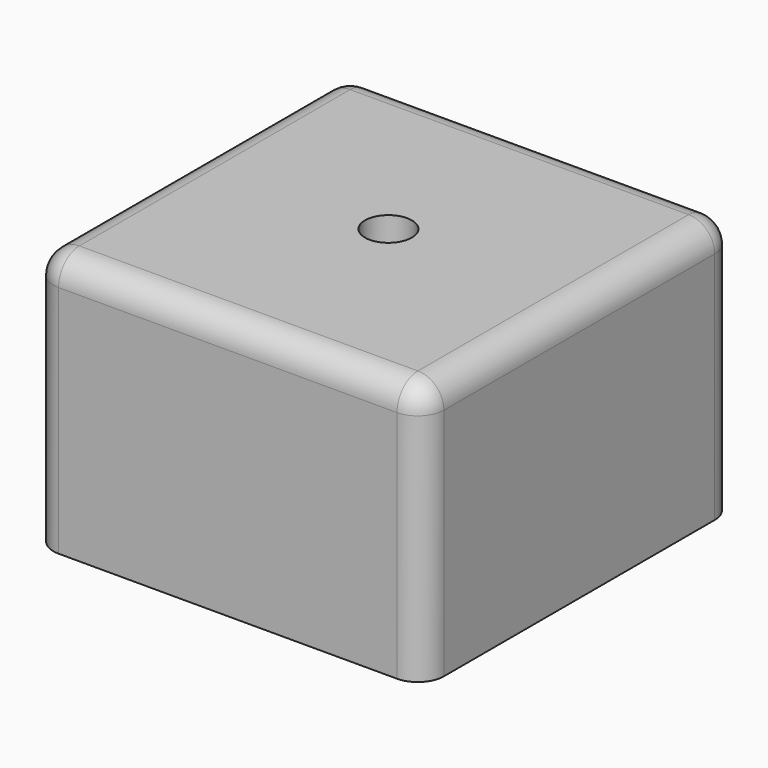
from build123d import *

# Parameters (mm, degrees)
CYLINDER001_R     = 1.8
CYLINDER001_DEPTH = 3
BOX006_W          = 3
BOX006_H          = 3
BOX006_DEPTH      = 3
BOX005_W          = 3
BOX005_H          = 3
BOX005_DEPTH      = 3
BOX003_W          = 3
BOX003_H          = 3
BOX003_DEPTH      = 3
BOX004_W          = 3
BOX004_H          = 3
BOX004_DEPTH      = 3
BOX002_W          = 3
BOX002_H          = 3
BOX002_DEPTH      = 3
BOX_W             = 26
BOX_H             = 26
BOX_DEPTH         = 17
BOX001_W          = 30
BOX001_H          = 30
BOX001_DEPTH      = 20
BOX010_W          = 6
BOX010_H          = 2
BOX010_DEPTH      = 3.4
BOX008_W          = 4
BOX008_H          = 4
BOX008_DEPTH      = 3.4
BOX007_W          = 26
BOX007_H          = 1.8
BOX007_DEPTH      = 3.4
BOX009_W          = 6
BOX009_H          = 2
BOX009_DEPTH      = 3.4
BOX011_W          = 6
BOX011_H          = 2
BOX011_DEPTH      = 3.4
FILLET_R          = 2


with BuildPart() as obj1:
    # Cylinder001 → Cylinder001 (new body)
    with BuildSketch(Plane(origin=(0.1, 0.3, 7), x_dir=(1, 0, 0), z_dir=(0, 0, 1))):
        Circle(CYLINDER001_R)
    extrude(amount=CYLINDER001_DEPTH)


with BuildPart() as l5:
    # Box006 → Box006 (new body)
    with BuildSketch(Plane(origin=(7.67, 8.11, 6.5), x_dir=(1, 0, 0), z_dir=(0, 0, 1))):
        with Locations((1.5, 1.5)):
            Rectangle(BOX006_W, BOX006_H)
    extrude(amount=BOX006_DEPTH)


with BuildPart() as l4:
    # Box005 → Box005 (new body)
    with BuildSketch(Plane(origin=(3.1, 8.11, 6.5), x_dir=(1, 0, 0), z_dir=(0, 0, 1))):
        with Locations((1.5, 1.5)):
            Rectangle(BOX005_W, BOX005_H)
    extrude(amount=BOX005_DEPTH)


with BuildPart() as l2:
    # Box003 → Box003 (new body)
    with BuildSketch(Plane(origin=(-6.04, 8.11, 6.5), x_dir=(1, 0, 0), z_dir=(0, 0, 1))):
        with Locations((1.5, 1.5)):
            Rectangle(BOX003_W, BOX003_H)
    extrude(amount=BOX003_DEPTH)


with BuildPart() as l3:
    # Box004 → Box004 (new body)
    with BuildSketch(Plane(origin=(-1.47, 8.11, 6.5), x_dir=(1, 0, 0), z_dir=(0, 0, 1))):
        with Locations((1.5, 1.5)):
            Rectangle(BOX004_W, BOX004_H)
    extrude(amount=BOX004_DEPTH)


with BuildPart() as fusion:
    # Box002 → Box002 (new body)
    with BuildSketch(Plane(origin=(-10.61, 8.11, 6.5), x_dir=(1, 0, 0), z_dir=(0, 0, 1))):
        with Locations((1.5, 1.5)):
            Rectangle(BOX002_W, BOX002_H)
    extrude(amount=BOX002_DEPTH)

    # Fusion: union L5, L4, L2, L3
    add(l5.part)
    add(l4.part)
    add(l2.part)
    add(l3.part)


with BuildPart() as maininside:
    # Box → Box (new body)
    with BuildSketch(Plane(origin=(-13, -13, -10), x_dir=(1, 0, 0), z_dir=(0, 0, 1))):
        with Locations((13, 13)):
            Rectangle(BOX_W, BOX_H)
    extrude(amount=BOX_DEPTH)


with BuildPart() as cut002:
    # Box001 → Box001 (new body)
    with BuildSketch(Plane(origin=(-15, -15, -10), x_dir=(1, 0, 0), z_dir=(0, 0, 1))):
        with Locations((15, 15)):
            Rectangle(BOX001_W, BOX001_H)
    extrude(amount=BOX001_DEPTH)

    # Cut: cut MainInside
    add(maininside.part, mode=Mode.SUBTRACT)

    # Cut001: cut Fusion
    add(fusion.part, mode=Mode.SUBTRACT)

    # Cut002: cut obj1
    add(obj1.part, mode=Mode.SUBTRACT)


with BuildPart() as obj2:
    # Box010 → Box010 (new body)
    with BuildSketch(Plane(origin=(-13, 5.5, 3.6), x_dir=(1, 0, 0), z_dir=(0, 0, 1))):
        with Locations((3, 1)):
            Rectangle(BOX010_W, BOX010_H)
    extrude(amount=BOX010_DEPTH)


with BuildPart() as obj3:
    # Box008 → Box008 (new body)
    with BuildSketch(Plane(origin=(8, 0, 3.6), x_dir=(1, 0, 0), z_dir=(0, 0, 1))):
        with Locations((2, 2)):
            Rectangle(BOX008_W, BOX008_H)
    extrude(amount=BOX008_DEPTH)


with BuildPart() as obj4:
    # Box007 → Box007 (new body)
    with BuildSketch(Plane(origin=(-13, 11.2, 3.6), x_dir=(1, 0, 0), z_dir=(0, 0, 1))):
        with Locations((13, 0.9)):
            Rectangle(BOX007_W, BOX007_H)
    extrude(amount=BOX007_DEPTH)


with BuildPart() as obj5:
    # Box009 → Box009 (new body)
    with BuildSketch(Plane(origin=(-13, -4, 3.6), x_dir=(1, 0, 0), z_dir=(0, 0, 1))):
        with Locations((3, 1)):
            Rectangle(BOX009_W, BOX009_H)
    extrude(amount=BOX009_DEPTH)


with BuildPart() as fillet_body:
    # Box011 → Box011 (new body)
    with BuildSketch(Plane(origin=(7, -13, 3.6), x_dir=(1, 0, 0), z_dir=(0, 0, 1))):
        with Locations((3, 1)):
            Rectangle(BOX011_W, BOX011_H)
    extrude(amount=BOX011_DEPTH)

    # Fusion002: union obj2, obj3, obj4, obj5
    add(obj2.part)
    add(obj3.part)
    add(obj4.part)
    add(obj5.part)

    # Fusion005: union Cut002
    add(cut002.part)

    # Fillet
    fillet_edges = [fillet_body.edges().sort_by_distance(p)[0] for p in [
        (-15, 0, 10),
        (0, 15, 10),
        (0, -15, 10),
        (15, 0, 10),
        (-15, -15, 0),
        (-15, 15, 0),
        (15, 15, 0),
        (15, -15, 0),
    ]]
    fillet(fillet_edges, radius=FILLET_R)


solid = fillet_body.part
